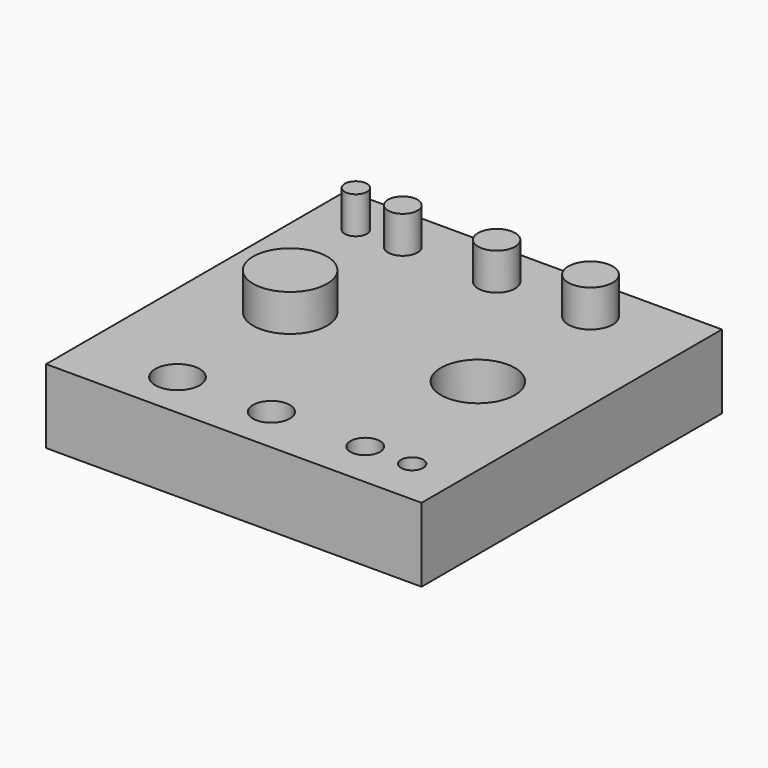
from build123d import *

# Parameters (mm, degrees)
F0_W     = 50.8
F0_H     = 50.8
F0_R     = 3
F0_R_2   = 2.5
F0_R_3   = 5
F0_R_4   = 2
F0_R_5   = 1.5
F1_DEPTH = 10
F2_DEPTH = 5


with BuildPart() as f1:
    # F0 (on Top) → F1 (new body)
    with BuildSketch(Plane.XY):
        Rectangle(F0_W, F0_H)
        with Locations((-12.7, -19.05)):
            Circle(F0_R, mode=Mode.SUBTRACT)
        with Locations((0, -19.05)):
            Circle(F0_R_2, mode=Mode.SUBTRACT)
        with Locations((-12.7, 0)):
            Circle(F0_R_3, mode=Mode.SUBTRACT)
        with Locations((12.7, -19.05)):
            Circle(F0_R_4, mode=Mode.SUBTRACT)
        with Locations((19.05, -19.05)):
            Circle(F0_R_5, mode=Mode.SUBTRACT)
        with Locations((12.7, 0)):
            Circle(F0_R_3, mode=Mode.SUBTRACT)
        with Locations((-19.05, 19.05)):
            Circle(F0_R_5, mode=Mode.SUBTRACT)
        with Locations((-12.7, 19.05)):
            Circle(F0_R_4, mode=Mode.SUBTRACT)
        with Locations((0, 19.05)):
            Circle(F0_R_2, mode=Mode.SUBTRACT)
        with Locations((12.7, 19.05)):
            Circle(F0_R, mode=Mode.SUBTRACT)
        with Locations((12.7, 19.05)):
            Circle(F0_R)
        with Locations((0, 19.05)):
            Circle(F0_R_2)
        with Locations((-12.7, 19.05)):
            Circle(F0_R_4)
        with Locations((-19.05, 19.05)):
            Circle(F0_R_5)
        with Locations((-12.7, 0)):
            Circle(F0_R_3)
    extrude(amount=-F1_DEPTH)

    # F0 (on Top) → F2 (join)
    with BuildSketch(Plane.XY):
        with Locations((-12.7, 0)):
            Circle(F0_R_3)
        with Locations((12.7, 19.05)):
            Circle(F0_R)
        with Locations((0, 19.05)):
            Circle(F0_R_2)
        with Locations((-12.7, 19.05)):
            Circle(F0_R_4)
        with Locations((-19.05, 19.05)):
            Circle(F0_R_5)
    extrude(amount=F2_DEPTH)


solid = f1.part
